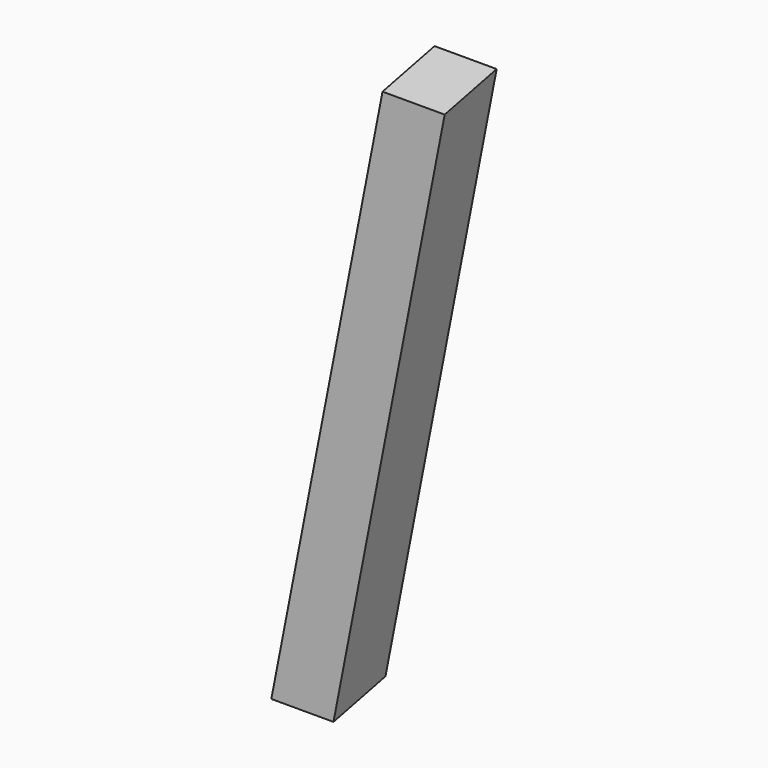
from build123d import *

# Parameters (mm, degrees)
F1_DEPTH = 80
F3_DEPTH = 300


with BuildPart() as f1:
    # F0 (on Front) → F1 (new body)
    with BuildSketch(Plane.XZ):
        Polygon((150, 770), (0, 0), (81.503828, 0), (231.503828, 770), align=None)
    extrude(amount=-F1_DEPTH)

    # F2 (on Right) → F3 (cut)
    with BuildSketch(Plane.YZ):
        Polygon((170.236699, 45.614786), (0, 0), (170.236699, 0), align=None)
        Polygon((-16.424778, 744.163059), (80, 770), (-16.424778, 770), align=None)
    extrude(amount=F3_DEPTH, mode=Mode.SUBTRACT)


solid = f1.part
